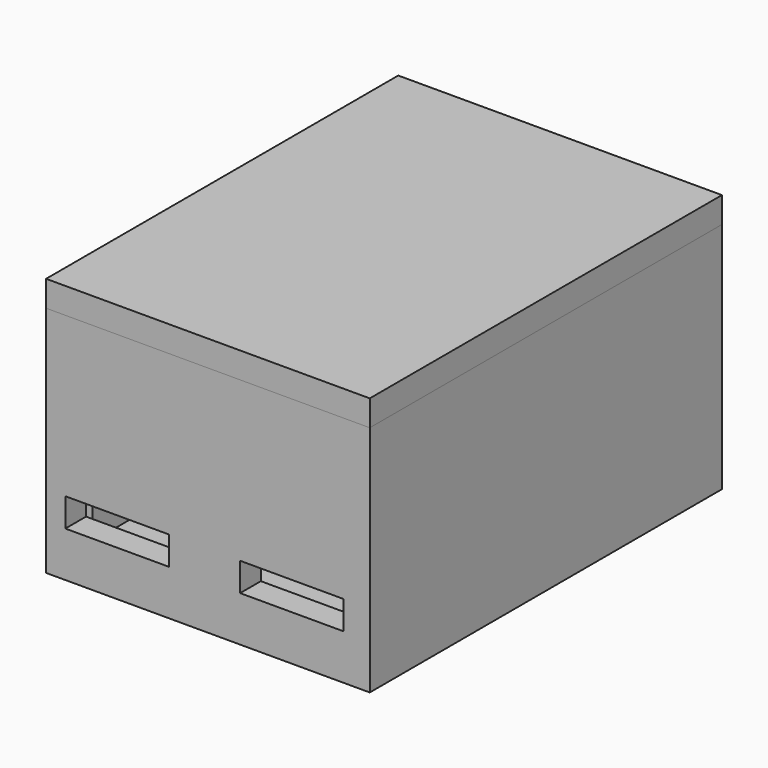
from build123d import *

# Parameters (mm, degrees)
F0_W      = 25
F0_H      = 34
F1_DEPTH  = 2
F2_W      = 25
F2_H      = 34
F2_W_2    = 21
F2_H_2    = 30
F3_DEPTH  = 16
F4_W      = 8
F4_H      = 2.2
F5_DEPTH  = 2
F6_R      = 1.75
F7_DEPTH  = 2
F8_W      = 25
F8_H      = 34
F8_W_2    = 21
F8_H_2    = 30
F9_DEPTH  = 2
F10_W     = 21
F10_H     = 30
F10_W_2   = 17
F10_H_2   = 26
F11_DEPTH = 4


with BuildPart() as f1:
    # F0 (on Top) → F1 (new body)
    with BuildSketch(Plane.XY):
        with Locations((-41.4935089648, 14.4056526116)):
            Rectangle(F0_W, F0_H)
    extrude(amount=-F1_DEPTH)

    # F2 (on face) → F3 (join)
    with BuildSketch(Plane.XY):
        with Locations((-41.4935089648, 14.4056526116)):
            Rectangle(F2_W, F2_H)
        with Locations((-41.4935089648, 14.4056526116)):
            Rectangle(F2_W_2, F2_H_2, mode=Mode.SUBTRACT)
    extrude(amount=F3_DEPTH)

    # F4 (on face) → F5 (cut)
    with BuildSketch(Plane.XZ.offset(2.5943473884)):
        with Locations((-48.5065041638, 2.6)):
            Rectangle(F4_W, F4_H)
        with Locations((-35.0065041638, 2.6)):
            Rectangle(F4_W, F4_H)
    extrude(amount=-F5_DEPTH, mode=Mode.SUBTRACT)

    # F6 (on face) → F7 (join)
    with BuildSketch(Plane.XY):
        with Locations((-48.9935089648, 11.4056526116)):
            Circle(F6_R)
        with Locations((-33.9935089648, 11.4056526116)):
            Circle(F6_R)
    extrude(amount=F7_DEPTH)


with BuildPart() as f9:
    # F8 (on face) → F9 (new body)
    with BuildSketch(Plane.XY.offset(16)):
        with Locations((-41.4935089648, 14.4056526116)):
            Rectangle(F8_W, F8_H)
        with Locations((-41.4935089648, 14.4056526116)):
            Rectangle(F8_W_2, F8_H_2, mode=Mode.SUBTRACT)
        with Locations((-41.4935089648, 14.4056526116)):
            Rectangle(F8_W_2, F8_H_2)
    extrude(amount=F9_DEPTH)

    # F10 (on face) → F11 (join)
    with BuildSketch(Plane.XY.offset(18)):
        with Locations((-41.4935089648, 14.4056526116)):
            Rectangle(F10_W, F10_H)
        with Locations((-41.4935089648, 14.4056526116)):
            Rectangle(F10_W_2, F10_H_2, mode=Mode.SUBTRACT)
    extrude(amount=-F11_DEPTH)


solid = Compound([f1.part, f9.part])
